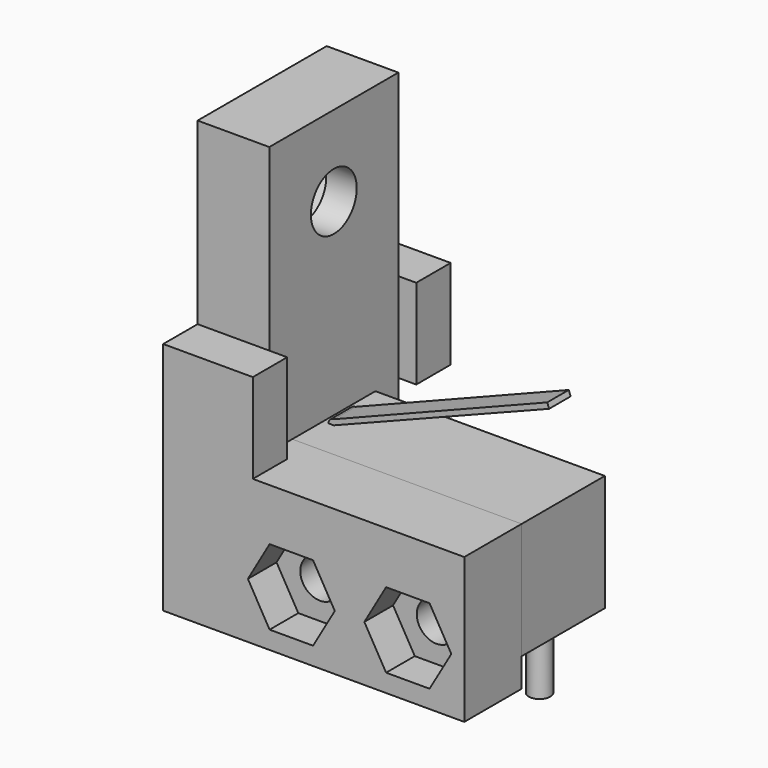
from build123d import *

# Parameters (mm, degrees)
F0_W      = 12.8
F0_H      = 6.5
F0_R      = 1.1
F1_DEPTH  = 5.8
F2_R      = 0.6
F3_DEPTH  = 3.4
F6_DEPTH  = 0.75
F7_W      = 12.8
F7_H      = 8.1
F7_R      = 1.1
F8_DEPTH  = 4
F10_DEPTH = 2
F11_R     = 1.6
F12_DEPTH = 4
F14_DEPTH = 2.3
F15_W     = 2.4
F15_H     = 5
F16_DEPTH = 5


with BuildPart() as f1:
    # F0 (on Front) → F1 (new body)
    with BuildSketch(Plane.XZ):
        with Locations((0, 3.25)):
            Rectangle(F0_W, F0_H)
        with Locations((-3.25, 1.5)):
            Circle(F0_R, mode=Mode.SUBTRACT)
        with Locations((3.25, 1.5)):
            Circle(F0_R, mode=Mode.SUBTRACT)
    extrude(amount=F1_DEPTH)

    # F2 (on face) → F3 (join)
    with BuildSketch(Plane(origin=(0, 0, 0), x_dir=(1, 0, 0), z_dir=(0, 0, -1))):
        with Locations((-5.08, 2.9)):
            Circle(F2_R)
        with Locations((0, 2.9)):
            Circle(F2_R)
        with Locations((5.08, 2.9)):
            Circle(F2_R)
    extrude(amount=F3_DEPTH)

    # F5 (on mid) → F6 (join, symmetric)
    with BuildSketch(Plane(origin=(0, -2.9, 0), x_dir=(-1, 0, 0), z_dir=(0, 1, 0))):
        with BuildLine():
            Line((-6.2160371498, 11.2209559164), (5.8, 6.5))
            Line((5.8, 6.5), (6.1, 6.5))
            ThreePointArc((6.1, 6.5), (6.0121320344, 6.7121320344), (5.8, 6.8))
            Line((5.8, 6.8), (-6.1058808998, 11.5))
            Line((-6.1058808998, 11.5), (-6.2160371498, 11.2209559164))
        make_face()
    extrude(amount=F6_DEPTH, both=True)


with BuildPart() as f8:
    # F7 (on face) → F8 (new body)
    with BuildSketch(Plane.XZ.offset(5.8)):
        with Locations((0, 2.45)):
            Rectangle(F7_W, F7_H)
        with Locations((-3.25, 1.5)):
            Circle(F7_R, mode=Mode.SUBTRACT)
        with Locations((3.25, 1.5)):
            Circle(F7_R, mode=Mode.SUBTRACT)
    extrude(amount=F8_DEPTH)

    # F9 (on face) → F10 (cut)
    with BuildSketch(Plane.XZ.offset(9.8)):
        Polygon((-4.4624355653, -0.6), (-2.0375644347, -0.6), (-0.8251288694, 1.5), (-2.0375644347, 3.6), (-4.4624355653, 3.6), (-5.6748711306, 1.5), align=None)
        Polygon((2.0375644347, 3.6), (0.8251288694, 1.5), (2.0375644347, -0.6), (4.4624355653, -0.6), (5.6748711306, 1.5), (4.4624355653, 3.6), align=None)
    extrude(amount=-F10_DEPTH, mode=Mode.SUBTRACT)



with BuildPart() as f12:
    # F11 (on face) → F12 (new body)
    with BuildSketch(Plane(origin=(-6.4, 0, 0), x_dir=(0, -1, 0), z_dir=(-1, 0, 0))):
        Polygon((7.4, 6.5), (7.4, 21.5), (-1.6, 21.5), (-1.6, -1.6), (9.8, -1.6), (9.8, 6.5), align=None)
        with Locations((2.9, 17)):
            Circle(F11_R, mode=Mode.SUBTRACT)
    extrude(amount=F12_DEPTH)

    # F13 (on face) → F14 (cut)
    with BuildSketch(Plane(origin=(-10.4, 0, 0), x_dir=(0, -1, 0), z_dir=(-1, 0, 0))):
        Polygon((1.2834192463, 14.2), (4.5165807537, 14.2), (6.1331615075, 17), (4.5165807537, 19.8), (1.2834192463, 19.8), (-0.3331615075, 17), align=None)
    extrude(amount=-F14_DEPTH, mode=Mode.SUBTRACT)


with BuildPart() as f8_1:
    add(f8.part)

    add(f12.part)  # F16 merges F12
    # F15 (on face) → F16 (join)
    with BuildSketch(Plane(origin=(-10.4, 0, 0), x_dir=(0, -1, 0), z_dir=(-1, 0, 0))):
        with Locations((8.6, 9)):
            Rectangle(F15_W, F15_H)
        with Locations((-2.8, 9)):
            Rectangle(F15_W, F15_H)
    extrude(amount=-F16_DEPTH)


solid = Compound([f1.part, f8_1.part])
